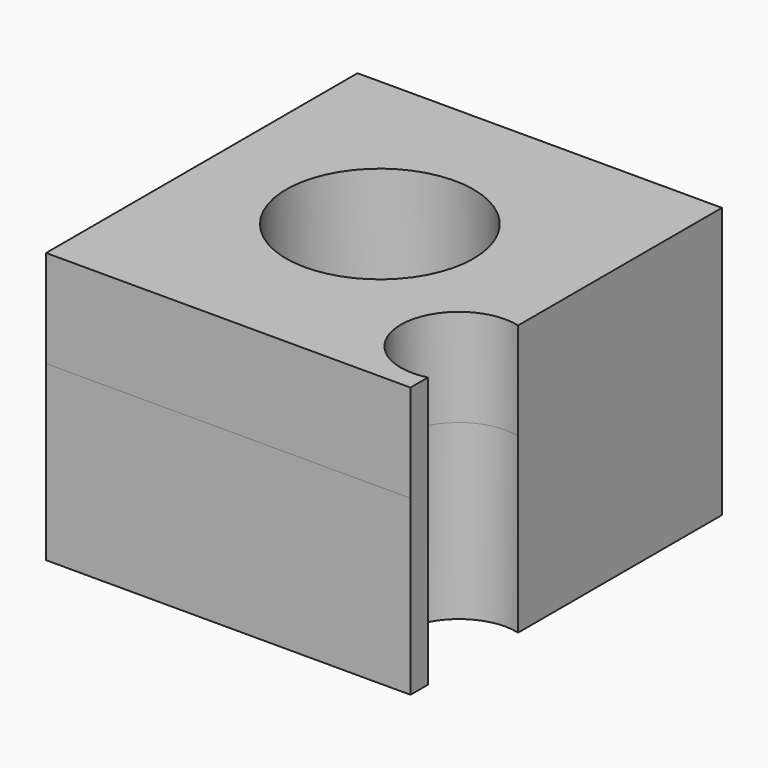
from build123d import *

# Parameters (mm, degrees)
F0_W      = 53.48517
F0_H      = 57.135977
F0_R      = 13.74545
F1_DEPTH  = 25.4
F2_R      = 8.533387
F3_DEPTH  = 25.401
F1_FACE_R = 13.74545
F4_DEPTH  = 14.3


with BuildPart() as f1:
    # F0 (on Top) → F1 (new body)
    with BuildSketch(Plane.XY):
        with Locations((-27.649881, 17.081891)):
            Rectangle(F0_W, F0_H)
        with Locations((-29.007103, 18.017888)):
            Circle(F0_R, mode=Mode.SUBTRACT)
    extrude(amount=F1_DEPTH)

    # F2 (on face) → F3 (cut, through all)
    with BuildSketch(Plane.XY.offset(25.4)):
        with Locations((-2.992112, 0)):
            Circle(F2_R)
    extrude(amount=-F3_DEPTH, mode=Mode.SUBTRACT)

    # F1_face (on face) → F4 (join)
    with BuildSketch(Plane(origin=(-27.322716, 16.856264, 25.4), x_dir=(1, 0, 0), z_dir=(0, 0, 1))):
        with BuildLine():
            Line((-27.06975, -28.342362), (26.41542, -28.342362))
            Line((26.41542, -28.342362), (26.41542, -25.131059))
            ThreePointArc((26.41542, -25.131059), (15.797216, -16.856264), (26.41542, -8.581468))
            Line((26.41542, -8.581468), (26.41542, 28.793615))
            Line((26.41542, 28.793615), (-27.06975, 28.793615))
            Line((-27.06975, 28.793615), (-27.06975, -28.342362))
        make_face()
        with Locations((-1.684388, 1.161625)):
            Circle(F1_FACE_R, mode=Mode.SUBTRACT)
    extrude(amount=F4_DEPTH)


solid = f1.part
